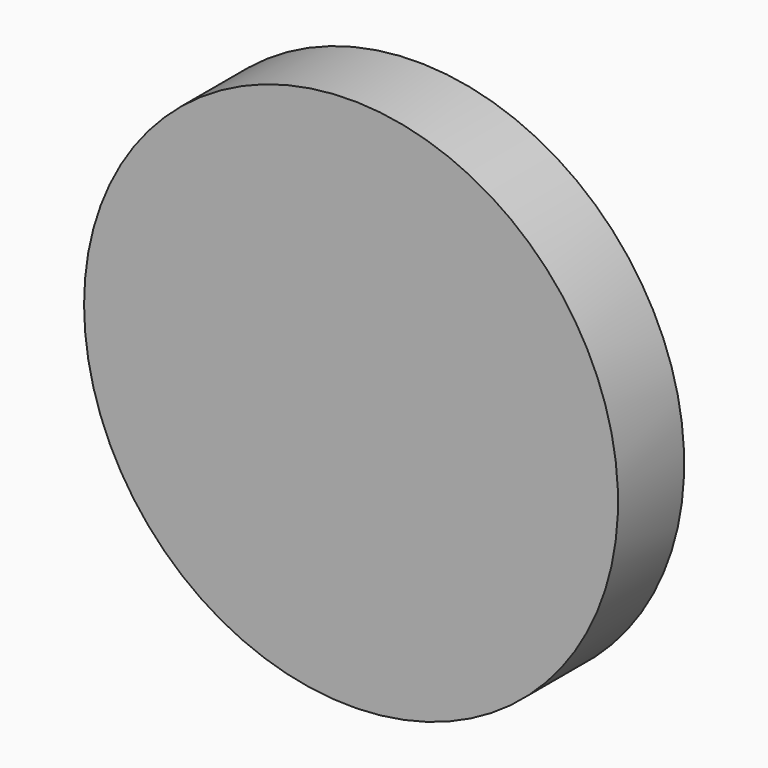
from build123d import *

# Parameters (mm, degrees)
F1_DEPTH = 6.35


with BuildPart() as f1:
    # F0 (on Front) → F1 (new body)
    with BuildSketch(Plane.XZ):
        with BuildLine():
            Line((-20.5, 0), (20.5, 0))
            ThreePointArc((20.5, 0), (0, 20.5), (-20.5, 0))
        make_face()
        with BuildLine():
            ThreePointArc((-20.5, 0), (0, -20.5), (20.5, 0))
            Line((20.5, 0), (-20.5, 0))
        make_face()
    extrude(amount=F1_DEPTH)


solid = f1.part
